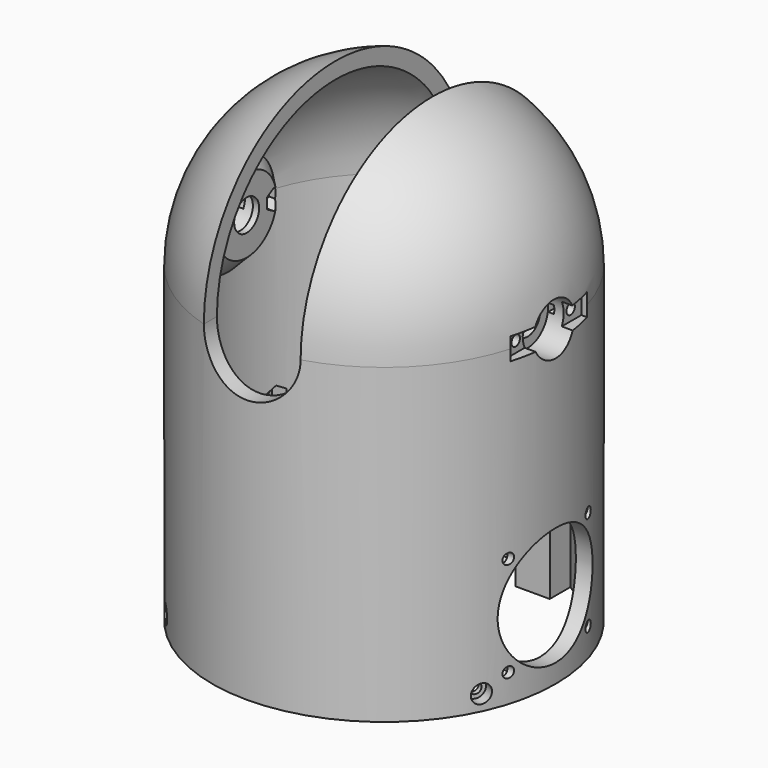
from build123d import *

# Parameters (mm, degrees)
POCKET_DEPTH                      = 55.001
POCKET_DEPTH_BACK                 = 55.001
SKETCH003_R                       = 5
POCKET001_DEPTH                   = 506.5693260458
SKETCH004_R                       = 8.2
POCKET002_DEPTH                   = 9
SKETCH005_W                       = 7
SKETCH005_H                       = 30.6
POCKET003_DEPTH                   = 4
SKETCH006_R                       = 1.7
POCKET004_DEPTH                   = 10
POCKET005_DEPTH                   = 4
PAD_DEPTH                         = 55
POCKET006_DEPTH                   = 55
POLARPATTERN_COUNT                = 2
SKETCH010_R                       = 1.7
POCKET007_DEPTH                   = 10
SKETCH011_R                       = 2.95
POCKET008_DEPTH                   = 5
SKETCH010_POLARPATTERN001_2_R     = 1.7
POCKET007_POLARPATTERN001_2_DEPTH = 10
SKETCH011_POLARPATTERN001_2_R     = 2.95
POCKET008_POLARPATTERN001_2_DEPTH = 5
POLARPATTERN002_COUNT             = 2
SKETCH012_W                       = 14
SKETCH012_H                       = 30
POCKET009_DEPTH                   = 52.25
SKETCH013_R                       = 1.2
POCKET010_DEPTH                   = 2.7510001
SKETCH014_R                       = 2.1
POCKET011_DEPTH                   = 1.5
SKETCH015_W                       = 27
SKETCH015_H                       = 12
POCKET012_DEPTH                   = 51
SKETCH016_R                       = 1.2
SKETCH016_W                       = 10.15
SKETCH016_H                       = 6
POCKET013_DEPTH                   = 4.0010001
SKETCH017_R                       = 2.1
POCKET014_DEPTH                   = 3.25
SKETCH018_R                       = 19
SKETCH018_R_2                     = 1.7
POCKET015_DEPTH                   = 11
POCKET016_DEPTH                   = 51


with BuildPart() as part:
    # Sketch → Revolution (revolve)
    with BuildSketch(Plane.XZ):
        with BuildLine():
            ThreePointArc((50, 100), (35.3553390593, 135.3553390593), (0, 150))
            Line((0, 155), (0, 150))
            ThreePointArc((55, 100), (38.8908729653, 138.8908729653), (0, 155))
            Line((55, 100), (55, 0))
            Line((50, 0), (55, 0))
            Line((50, 100), (50, 0))
        make_face()
    revolve(axis=Axis((0, 0, 0), (0, 0, 1)))

    # Sketch001 → Pocket (cut, two sides)
    with BuildSketch(Plane.XZ) as pocket_sk:
        with BuildLine():
            Line((-15.5, 160), (15.5, 160))
            Line((15.5, 160), (15.5, 100))
            ThreePointArc((-15.5, 100), (0, 84.5), (15.5, 100))
            Line((-15.5, 160), (-15.5, 100))
        make_face()
    extrude(amount=-POCKET_DEPTH, mode=Mode.SUBTRACT)
    extrude(pocket_sk.sketch, amount=POCKET_DEPTH_BACK, mode=Mode.SUBTRACT)

    # Sketch002 → Revolution001 (revolve)
    with BuildSketch(Plane.XZ):
        Polygon((50, 100), (44, 100), (44, 112), (50, 118), align=None)
    revolution001 = revolve(axis=Axis((0, 0, 100), (1, 0, 0)))

    # Sketch003 (on Face12 of Revolution001) → Pocket001 (cut, through all)
    with BuildSketch(Plane(origin=(-15.5, 0, 0), x_dir=(0, 0, 1), z_dir=(1, 0, 0))):
        with Locations((100, 0)):
            Circle(SKETCH003_R)
    pocket001 = extrude(amount=POCKET001_DEPTH, mode=Mode.SUBTRACT)

    # Sketch004 (on DatumPlane) → Pocket002 (cut)
    with BuildSketch(Plane(origin=(55, 0, 0), x_dir=(0, 0, -1), z_dir=(-1, 0, 0))):
        with Locations((-100, 0)):
            Circle(SKETCH004_R)
    pocket002 = extrude(amount=POCKET002_DEPTH, mode=Mode.SUBTRACT)

    # Sketch005 (on DatumPlane) → Pocket003 (cut)
    with BuildSketch(Plane(origin=(55, 0, 0), x_dir=(0, 0, -1), z_dir=(-1, 0, 0))):
        with Locations((-100, 0)):
            Rectangle(SKETCH005_W, SKETCH005_H)
    pocket003 = extrude(amount=POCKET003_DEPTH, mode=Mode.SUBTRACT)

    # Sketch006 (on Face25 of Pocket003) → Pocket004 (cut)
    with BuildSketch(Plane(origin=(51, 0, 0), x_dir=(0, 0, 1), z_dir=(1, 0, 0))):
        with Locations((100, 11)):
            Circle(SKETCH006_R)
        with Locations((100, -11)):
            Circle(SKETCH006_R)
    pocket004 = extrude(amount=-POCKET004_DEPTH, mode=Mode.SUBTRACT)

    # Sketch007 (on Face9 of Pocket004) → Pocket005 (cut)
    with BuildSketch(Plane(origin=(44, 0, 0), x_dir=(0, 0, -1), z_dir=(-1, 0, 0))):
        Polygon((-103.35, -11), (-101.675, -13.9011851027), (-98.325, -13.9011851027), (-96.65, -11), (-98.325, -8.0988148973), (-101.675, -8.0988148973), align=None)
        Polygon((-101.675, 8.0988148973), (-98.325, 8.0988148973), (-96.65, 11), (-98.325, 13.9011851027), (-101.675, 13.9011851027), (-103.35, 11), align=None)
    pocket005 = extrude(amount=-POCKET005_DEPTH, mode=Mode.SUBTRACT)

    # Mirrored: Revolution001, Pocket001, Pocket002, Pocket003, Pocket004, Pocket005 across Sketch002 V_Axis
    add(revolution001.mirror(Plane(origin=(0, 0, 0), x_dir=(0, -1, 0), z_dir=(1, 0, 0))))
    add(pocket001.mirror(Plane(origin=(0, 0, 0), x_dir=(0, -1, 0), z_dir=(1, 0, 0))), mode=Mode.SUBTRACT)
    add(pocket002.mirror(Plane(origin=(0, 0, 0), x_dir=(0, -1, 0), z_dir=(1, 0, 0))), mode=Mode.SUBTRACT)
    add(pocket003.mirror(Plane(origin=(0, 0, 0), x_dir=(0, -1, 0), z_dir=(1, 0, 0))), mode=Mode.SUBTRACT)
    add(pocket004.mirror(Plane(origin=(0, 0, 0), x_dir=(0, -1, 0), z_dir=(1, 0, 0))), mode=Mode.SUBTRACT)
    add(pocket005.mirror(Plane(origin=(0, 0, 0), x_dir=(0, -1, 0), z_dir=(1, 0, 0))), mode=Mode.SUBTRACT)

    # Sketch008 (on Face9 of Mirrored) → Pad (join)
    with BuildSketch(Plane(origin=(0, 0, 0), x_dir=(1, 0, 0), z_dir=(0, 0, -1))):
        with BuildLine():
            ThreePointArc((-38.9, -31.4132137802), (-33.7780360877, -36.865217727), (-27.9, -41.4920474308))
            Line((-27.9, -27), (-27.9, -41.4920474308))
            Line((-38.9, -27), (-27.9, -27))
            Line((-38.9, -31.4132137802), (-38.9, -27))
        make_face()
        with BuildLine():
            ThreePointArc((14.1, -47.9707202364), (19.7420093727, -45.9374908536), (25.1, -43.2433809964))
            Line((25.1, -35), (25.1, -43.2433809964))
            Line((14.1, -35), (25.1, -35))
            Line((14.1, -47.9707202364), (14.1, -35))
        make_face()
    pad = extrude(amount=-PAD_DEPTH)

    # Sketch009 (on Face79 of Pad) → Pocket006 (cut)
    with BuildSketch(Plane(origin=(0, 0, 0), x_dir=(1, 0, 0), z_dir=(0, 0, -1))):
        Polygon((-32, -29.5), (-32, -39.5), (-26.041232037, -34.5), align=None)
        Polygon((18.2, -37.5), (18.2, -47.5), (12.241232037, -42.5), align=None)
        Polygon((-27.9, -43), (-24.1, -45.35), (-21.0565310533, -45.35), (-21.0565310533, -41.4920474308), (-27.9, -41.4920474308), align=None)
    pocket006 = extrude(amount=-POCKET006_DEPTH, mode=Mode.SUBTRACT)

    # PolarPattern: Pad, Pocket006 ×2 about axis
    polarpattern_axis = Axis((0, 0, 0), (0, 0, -1))
    for i in range(1, POLARPATTERN_COUNT):
        add(pad.rotate(polarpattern_axis, i * 360 / POLARPATTERN_COUNT))
        add(pocket006.rotate(polarpattern_axis, i * 360 / POLARPATTERN_COUNT), mode=Mode.SUBTRACT)

    # Sketch010 (on DatumPlane) → Pocket007 (cut)
    with BuildSketch(Plane(origin=(-40, -40, 0), x_dir=(0.7071067812, -0.7071067812, 0), z_dir=(-0.7071067812, -0.7071067812, 0))):
        with Locations((0, 5)):
            Circle(SKETCH010_R)
    pocket007 = extrude(amount=-POCKET007_DEPTH, mode=Mode.SUBTRACT)

    # Sketch011 (on DatumPlane) → Pocket008 (cut)
    with BuildSketch(Plane(origin=(-40, -40, 0), x_dir=(0.7071067812, -0.7071067812, 0), z_dir=(-0.7071067812, -0.7071067812, 0))):
        with Locations((0, 5)):
            Circle(SKETCH011_R)
    pocket008 = extrude(amount=-POCKET008_DEPTH, mode=Mode.SUBTRACT)

    # Sketch010 PolarPattern001 2 → Pocket007 PolarPattern001 2 (cut)
    with BuildSketch(Plane(origin=(-51.2685105645, 23.9068990984, 0), x_dir=(-0.4226182617, -0.906307787, 0), z_dir=(-0.906307787, 0.4226182617, 0))):
        with Locations((0, 5)):
            Circle(SKETCH010_POLARPATTERN001_2_R)
    pocket007_polarpattern001_2 = extrude(amount=-POCKET007_POLARPATTERN001_2_DEPTH, mode=Mode.SUBTRACT)

    # Sketch011 PolarPattern001 2 → Pocket008 PolarPattern001 2 (cut)
    with BuildSketch(Plane(origin=(-51.2685105645, 23.9068990984, 0), x_dir=(-0.4226182617, -0.906307787, 0), z_dir=(-0.906307787, 0.4226182617, 0))):
        with Locations((0, 5)):
            Circle(SKETCH011_POLARPATTERN001_2_R)
    pocket008_polarpattern001_2 = extrude(amount=-POCKET008_POLARPATTERN001_2_DEPTH, mode=Mode.SUBTRACT)

    # PolarPattern002: Pocket007, Pocket008, Pocket007 PolarPattern001 2, Pocket008 PolarPattern001 2 ×2 about axis
    polarpattern002_axis = Axis((0, 0, 0), (0, 0, 1))
    for i in range(1, POLARPATTERN002_COUNT):
        add(pocket007.rotate(polarpattern002_axis, i * 360 / POLARPATTERN002_COUNT), mode=Mode.SUBTRACT)
        add(pocket008.rotate(polarpattern002_axis, i * 360 / POLARPATTERN002_COUNT), mode=Mode.SUBTRACT)
        add(pocket007_polarpattern001_2.rotate(polarpattern002_axis, i * 360 / POLARPATTERN002_COUNT), mode=Mode.SUBTRACT)
        add(pocket008_polarpattern001_2.rotate(polarpattern002_axis, i * 360 / POLARPATTERN002_COUNT), mode=Mode.SUBTRACT)

    # Sketch012 → Pocket009 (cut)
    with BuildSketch(Plane.XZ):
        with Locations((0, 87)):
            Rectangle(SKETCH012_W, SKETCH012_H)
    extrude(amount=-POCKET009_DEPTH, mode=Mode.SUBTRACT)

    # Sketch013 (on Face80 of Pocket009) → Pocket010 (cut, through all)
    with BuildSketch(Plane.XZ.offset(-52.25)):
        with Locations((-3.25, 79.9)):
            Circle(SKETCH013_R)
        with Locations((3.25, 79.9)):
            Circle(SKETCH013_R)
    extrude(amount=-POCKET010_DEPTH, mode=Mode.SUBTRACT)

    # Sketch014 (on DatumPlane) → Pocket011 (cut)
    with BuildSketch(Plane.XZ.offset(-55.25)):
        with Locations((3.25, 79.9)):
            Circle(SKETCH014_R)
        with Locations((-3.25, 79.9)):
            Circle(SKETCH014_R)
    extrude(amount=POCKET011_DEPTH, mode=Mode.SUBTRACT)

    # Sketch015 → Pocket012 (cut)
    with BuildSketch(Plane.XZ):
        with Locations((0, 63.375)):
            Rectangle(SKETCH015_W, SKETCH015_H)
    extrude(amount=-POCKET012_DEPTH, mode=Mode.SUBTRACT)

    # Sketch016 (on Face85 of Pocket012) → Pocket013 (cut, through all)
    with BuildSketch(Plane.XZ.offset(-51)):
        with Locations((-10.16, 63.375)):
            Circle(SKETCH016_R)
        with Locations((10.16, 63.375)):
            Circle(SKETCH016_R)
        with Locations((0, 63.875)):
            Rectangle(SKETCH016_W, SKETCH016_H)
    extrude(amount=-POCKET013_DEPTH, mode=Mode.SUBTRACT)

    # Sketch017 (on DatumPlane) → Pocket014 (cut)
    with BuildSketch(Plane.XZ.offset(-55.25)):
        with Locations((-10.16, 63.375)):
            Circle(SKETCH017_R)
        with Locations((10.16, 63.375)):
            Circle(SKETCH017_R)
    extrude(amount=POCKET014_DEPTH, mode=Mode.SUBTRACT)

    # Sketch018 (on DatumPlane) → Pocket015 (cut)
    with BuildSketch(Plane.YZ.offset(55)):
        with Locations((0, 25)):
            Circle(SKETCH018_R)
        with Locations((-16, 41)):
            Circle(SKETCH018_R_2)
        with Locations((16, 41)):
            Circle(SKETCH018_R_2)
        with Locations((16, 9)):
            Circle(SKETCH018_R_2)
        with Locations((-16, 9)):
            Circle(SKETCH018_R_2)
    pocket015 = extrude(amount=-POCKET015_DEPTH, mode=Mode.SUBTRACT)

    # Sketch019 → Pocket016 (cut)
    with BuildSketch(Plane.YZ):
        Polygon((13.0988148973, 39.325), (16, 37.65), (18.9011851027, 39.325), (18.9011851027, 42.675), (16, 44.35), (13.0988148973, 42.675), align=None)
        Polygon((-13.0988148973, 42.675), (-16, 44.35), (-18.9011851027, 42.675), (-18.9011851027, 39.325), (-16, 37.65), (-13.0988148973, 39.325), align=None)
        Polygon((-13.0988148973, 10.675), (-16, 12.35), (-18.9011851027, 10.675), (-18.9011851027, 7.325), (-16, 5.65), (-13.0988148973, 7.325), align=None)
        Polygon((18.9011851027, 10.675), (16, 12.35), (13.0988148973, 10.675), (13.0988148973, 7.325), (16, 5.65), (18.9011851027, 7.325), align=None)
    pocket016 = extrude(amount=POCKET016_DEPTH, mode=Mode.SUBTRACT)

    # Mirrored001: Pocket015, Pocket016 across YZ
    add(pocket015.mirror(Plane.YZ), mode=Mode.SUBTRACT)
    add(pocket016.mirror(Plane.YZ), mode=Mode.SUBTRACT)


solid = part.part
